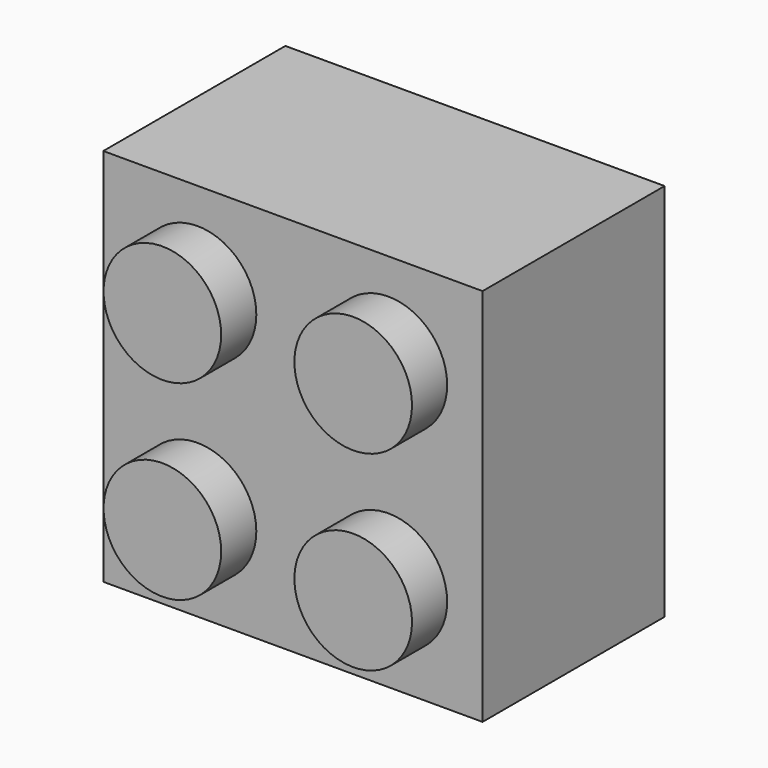
from build123d import *

# Parameters (mm, degrees)
F0_W     = 15.8
F0_H     = 15.8
F1_DEPTH = 9.55
F2_R     = 2.45
F4_DEPTH = 1.83
F3_R     = 2.45
F6_DEPTH = 1.83
F7_R     = 0.1


with BuildPart() as f1:
    # F0 (on Front) → F1 (new body)
    with BuildSketch(Plane.XZ):
        with Locations((7.9, 7.9)):
            Rectangle(F0_W, F0_H)
    extrude(amount=F1_DEPTH)

    # F2 (on face) → F4 (join)
    with BuildSketch(Plane.XZ.offset(9.55)):
        with Locations((3.925, 11.875)):
            Circle(F2_R)
    extrude(amount=F4_DEPTH)

    # F3 (on face) → F6 (join)
    with BuildSketch(Plane.XZ.offset(9.55)):
        with Locations((11.875, 11.875)):
            Circle(F3_R)
        with Locations((3.925, 3.925)):
            Circle(F3_R)
        with Locations((11.875, 3.925)):
            Circle(F3_R)
    extrude(amount=F6_DEPTH)

    # F7
    f7_edges = [f1.edges().sort_by_distance(p)[0] for p in [
        (7.9, 0, 15.8),
        (0, 0, 7.9),
        (7.9, 0, 0),
        (15.8, 0, 7.9),
    ]]
    fillet(f7_edges, radius=F7_R)


solid = f1.part
